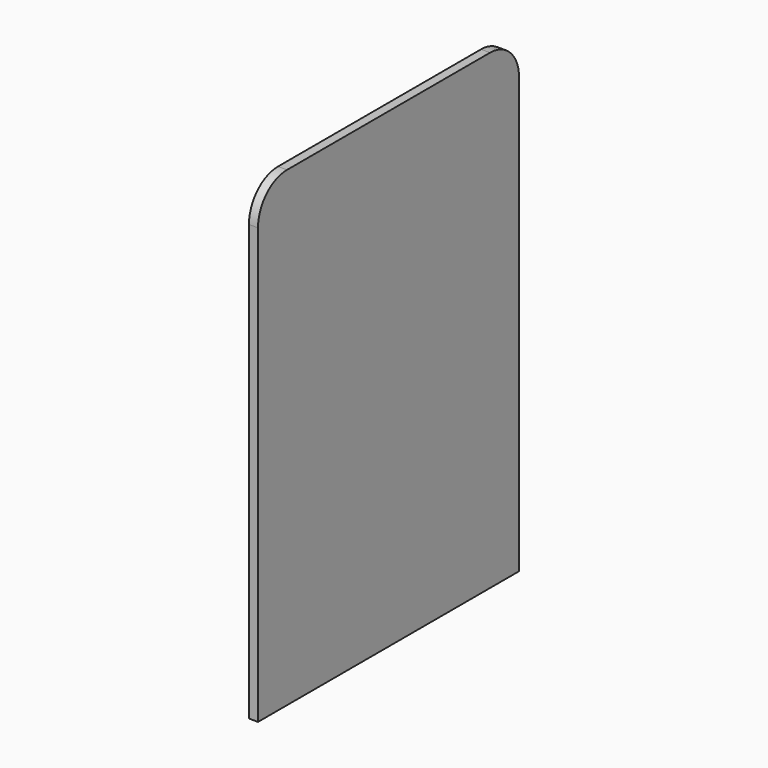
from build123d import *

# Parameters (mm, degrees)
F0_W     = 457.2
F0_H     = 660.4
F1_DEPTH = 12.7
F2_R     = 50.8


with BuildPart() as f1:
    # F0 (on Right) → F1 (new body)
    with BuildSketch(Plane.YZ):
        with Locations((228.6, 330.2)):
            Rectangle(F0_W, F0_H)
    extrude(amount=F1_DEPTH)

    # F2
    f2_edges = [f1.edges().sort_by_distance(p)[0] for p in [
        (6.35, 0, 660.4),
        (6.35, 457.2, 660.4),
    ]]
    fillet(f2_edges, radius=F2_R)


solid = f1.part
